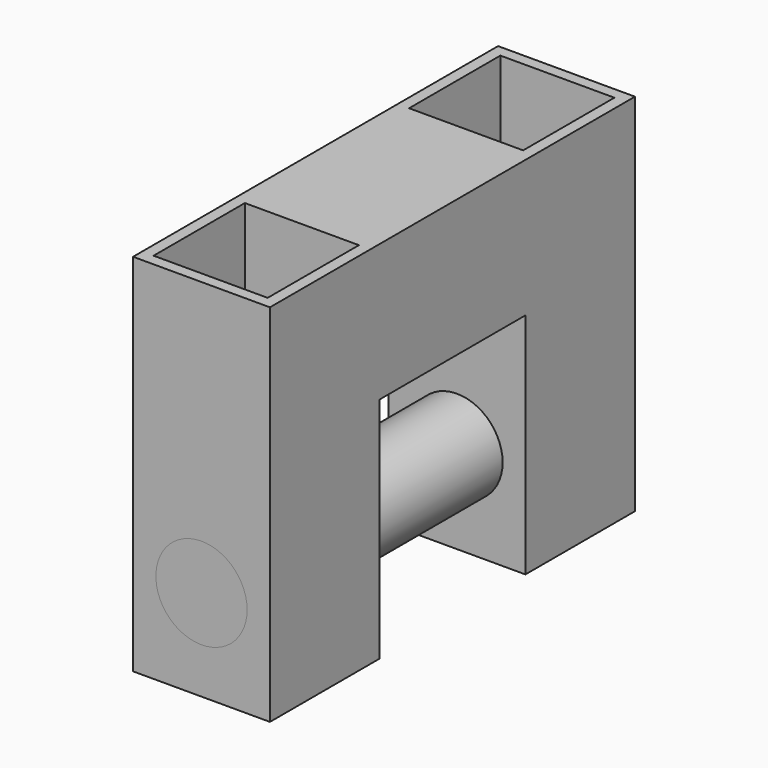
from build123d import *

# Parameters (mm, degrees)
F0_W     = 38.0999970647
F0_H     = 38.1
F0_W_2   = 31.7499970647
F0_H_2   = 31.75
F1_DEPTH = 50.8
F2_W     = 38.0999970647
F2_H     = 38.1
F2_W_2   = 31.7499970647
F2_H_2   = 31.75
F3_DEPTH = 101.6
F5_R     = 12.7
F6_DEPTH = 88.901
F8_R     = 12.7
F9_DEPTH = 127


with BuildPart() as f1:
    # F0 (on Front) → F1 (new body)
    with BuildSketch(Plane.XZ):
        with Locations((-19.0499985323, 19.05)):
            Rectangle(F0_W, F0_H)
        with Locations((-19.0499985323, 19.05)):
            Rectangle(F0_W_2, F0_H_2, mode=Mode.SUBTRACT)
    extrude(amount=F1_DEPTH)



with BuildPart() as f3:
    # F2 (on face) → F3 (new body)
    with BuildSketch(Plane.XY.offset(38.1)):
        with Locations((-19.0499985323, -69.85)):
            Rectangle(F2_W, F2_H)
        with Locations((-19.0499985323, -69.85)):
            Rectangle(F2_W_2, F2_H_2, mode=Mode.SUBTRACT)
    extrude(amount=-F3_DEPTH)

    # F5 (on face) → F6 (cut, through all)
    with BuildSketch(Plane.XZ.offset(88.9)):
        with Locations((-19.0499985323, -38.1)):
            Circle(F5_R)
    extrude(amount=-F6_DEPTH, mode=Mode.SUBTRACT)


with BuildPart() as f1_1:
    add(f1.part)

    add(f3.part)  # F7 merges F3
    # F7: F3 across plane
    add(f3.part.mirror(Plane(origin=(-19.0499985323, -25.4, 19.05), x_dir=(1, 0, 0), z_dir=(0, 1, 0))))


with BuildPart() as f9:
    # F8 (on face) → F9 (new body)
    with BuildSketch(Plane.XZ.offset(88.9)):
        with Locations((-19.0499985323, -38.1)):
            Circle(F8_R)
    extrude(amount=-F9_DEPTH)


solid = Compound([f1_1.part, f9.part])
